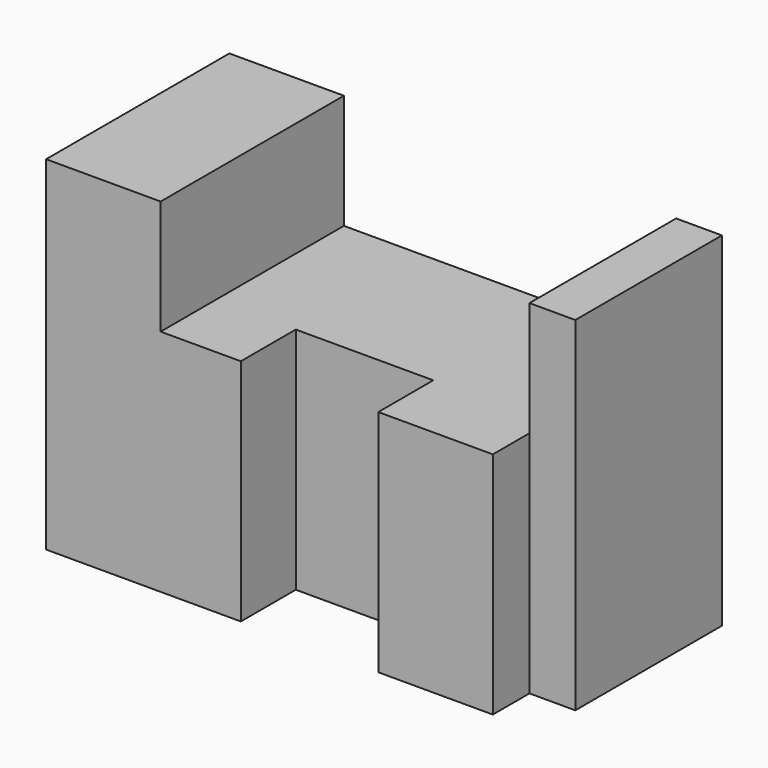
from build123d import *

# Parameters (mm, degrees)
F0_W     = 25
F0_H     = 75
F1_DEPTH = 50
F2_W     = 50
F2_H     = 50
F3_DEPTH = 17.5
F4_W     = 35
F4_H     = 50
F5_DEPTH = 30
F6_W     = 15
F6_H     = 50
F6_W_2   = 35
F7_DEPTH = 25
F8_W     = 40
F8_H     = 50
F8_H_2   = 25
F9_DEPTH = 10


with BuildPart() as f1:
    # F0 (on Front) → F1 (new body)
    with BuildSketch(Plane.XZ):
        with Locations((12.5, 37.5)):
            Rectangle(F0_W, F0_H)
    extrude(amount=F1_DEPTH)

    # F2 (on face) → F3 (join)
    with BuildSketch(Plane.YZ.offset(25)):
        with Locations((-25, 25)):
            Rectangle(F2_W, F2_H)
    extrude(amount=F3_DEPTH)

    # F4 (on face) → F5 (join)
    with BuildSketch(Plane.YZ.offset(42.5)):
        with Locations((-17.5, 25)):
            Rectangle(F4_W, F4_H)
    extrude(amount=F5_DEPTH)

    # F6 (on face) → F7 (join)
    with BuildSketch(Plane.YZ.offset(72.5)):
        with Locations((-42.5, 25)):
            Rectangle(F6_W, F6_H)
        with Locations((-17.5, 25)):
            Rectangle(F6_W_2, F6_H)
    extrude(amount=F7_DEPTH)

    # F8 (on face) → F9 (join)
    with BuildSketch(Plane.YZ.offset(97.5)):
        with Locations((-20, 25)):
            Rectangle(F8_W, F8_H)
        with Locations((-20, 62.5)):
            Rectangle(F8_W, F8_H_2)
    extrude(amount=F9_DEPTH)


solid = f1.part
